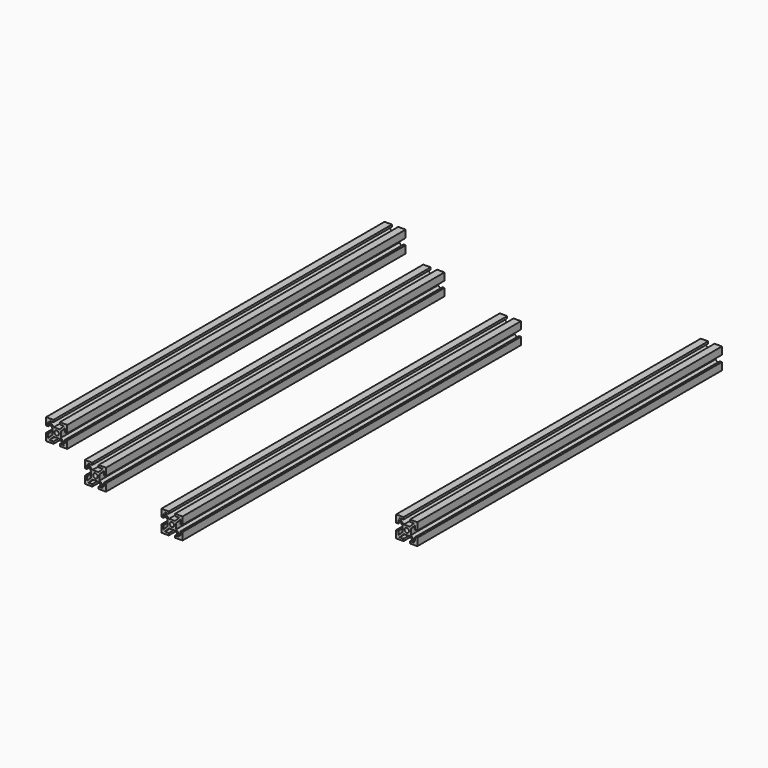
from build123d import *

# Parameters (mm, degrees)
F0_R     = 2.1
F1_DEPTH = 200
F5_DEPTH = 40


with BuildPart() as f1:
    # F0 (on Front) → F1 (new body, symmetric)
    with BuildSketch(Plane.XZ):
        Polygon((-3.0126686902, 7.9956121638), (-3.0126686902, 9.9956121638), (-10.0126686902, 9.9956121638), (-10.0126686902, 2.9956121638), (-8.0126686902, 2.9956121638), (-8.0126686902, 6.7456121638), (-4.0126686902, 2.7456121638), (-4.0126686902, -2.7543878362), (-8.0126686902, -6.7543878362), (-8.0126686902, -3.0043878362), (-10.0126686902, -3.0043878362), (-10.0126686902, -10.0043878362), (-3.0126686902, -10.0043878362), (-3.0126686902, -8.0043878362), (-6.7626686902, -8.0043878362), (-2.7626686902, -4.0043878362), (2.8558004289, -4.0043878362), (6.8558004289, -8.0043878362), (2.9873313098, -8.0043878362), (2.9873313098, -10.0043878362), (9.9873313098, -10.0043878362), (9.9873313098, -3.0043878362), (7.9873313098, -3.0043878362), (7.9873313098, -6.6695771024), (3.9873313098, -2.6695771024), (3.9873313098, 2.7419763997), (7.9873313098, 6.7419763997), (7.9873313098, 2.9956121638), (9.9873313098, 2.9956121638), (9.9873313098, 9.9956121638), (2.9873313098, 9.9956121638), (2.9873313098, 7.9956121638), (6.8558004289, 7.9956121638), (2.8506654888, 3.9956121638), (-2.7626686902, 3.9956121638), (-6.7626686902, 7.9956121638), align=None)
        with Locations((-0.0126686902, -0.0043878362)):
            Circle(F0_R, mode=Mode.SUBTRACT)
    extrude(amount=F1_DEPTH, both=True)


with BuildPart() as f2_1:
    # F2: copy of F1
    add(f1.part.moved(Location((65.08263, -35.52735, 0))))


with BuildPart() as f3_1:
    # F3: copy of F2_1
    add(f2_1.part.moved(Location((92.83675, -25.63664, 0))))


with BuildPart() as f4_1:
    # F4: copy of F1
    add(f1.part.moved(Location((299, 0, 0))))

    # F5 (cut): a face of the model
    f5_faces = [f4_1.faces().sort_by_distance(p)[0] for p in [
        (299.0439983993, -200, 3.7127694513),
    ]]
    extrude(f5_faces, amount=-F5_DEPTH, mode=Mode.SUBTRACT)


solid = Compound([f1.part, f2_1.part, f3_1.part, f4_1.part])
